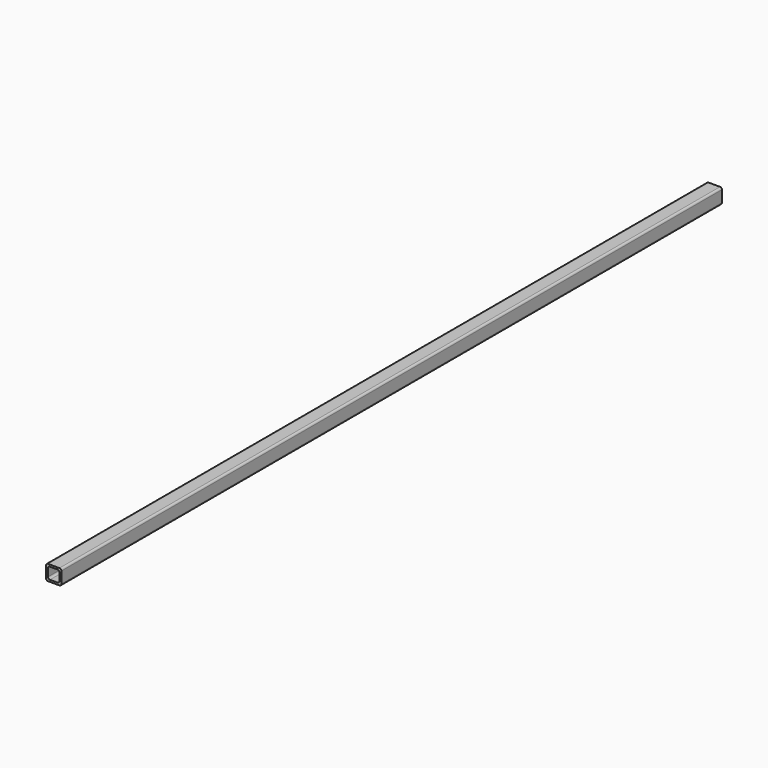
from build123d import *

# Parameters (mm, degrees)
F0_W     = 50.8
F0_H     = 50.8
F0_W_2   = 38.1
F0_H_2   = 38.1
F1_DEPTH = 1371.6
F2_R     = 6.35


with BuildPart() as f1:
    # F0 (on Front) → F1 (new body, symmetric)
    with BuildSketch(Plane.XZ):
        Rectangle(F0_W, F0_H)
        Rectangle(F0_W_2, F0_H_2, mode=Mode.SUBTRACT)
    extrude(amount=F1_DEPTH, both=True)

    # F2
    f2_edges = [f1.edges().sort_by_distance(p)[0] for p in [
        (-25.4, 0, 25.4),
        (25.4, 0, 25.4),
        (19.05, 0, -19.05),
        (-19.05, 0, -19.05),
        (25.4, 0, -25.4),
        (-25.4, 0, -25.4),
        (19.05, 0, 19.05),
        (-19.05, 0, 19.05),
    ]]
    fillet(f2_edges, radius=F2_R)


solid = f1.part
